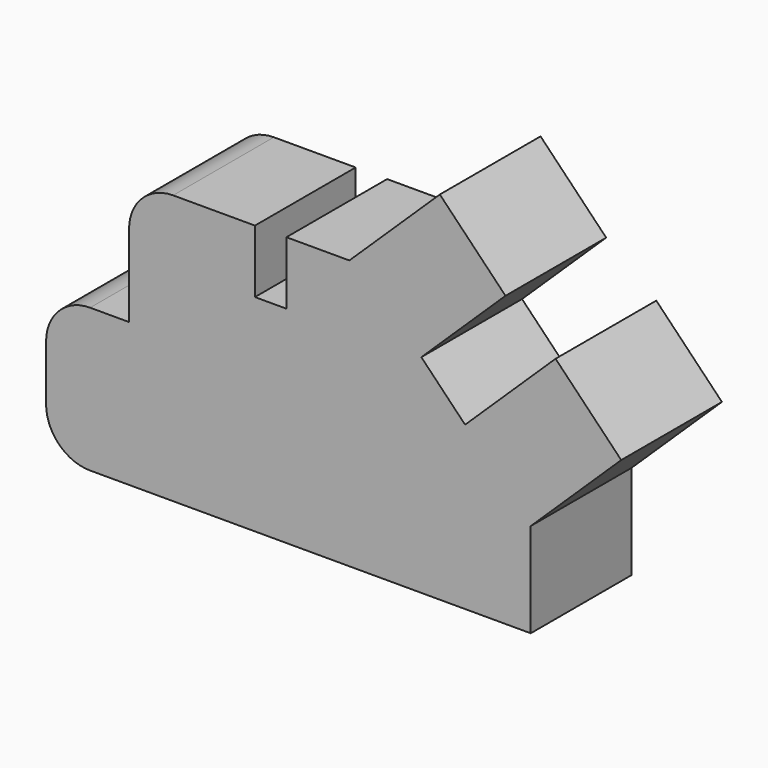
from build123d import *

# Parameters (mm, degrees)
F1_DEPTH = 508


with BuildPart() as f1:
    # F0 (on Front) → F1 (new body)
    with BuildSketch(Plane.XZ):
        with BuildLine():
            Line((-940.237215, 192.609879), (-940.237215, -30.321289))
            ThreePointArc((-940.237215, -30.321289), (-888.160801, -156.044874), (-762.437215, -208.121289))
            Line((-762.437215, -208.121289), (1015.562785, -208.121289))
            Line((1015.562785, -208.121289), (1015.562785, 172.878711))
            Line((1015.562785, 172.878711), (1380.703211, 526.059216))
            Line((1380.703211, 526.059216), (1115.817833, 799.914536))
            Line((1115.817833, 799.914536), (750.677406, 446.734031))
            Line((750.677406, 446.734031), (574.087154, 629.304244))
            Line((574.087154, 629.304244), (913.639785, 957.735064))
            Line((913.639785, 957.735064), (648.754406, 1231.590384))
            Line((648.754406, 1231.590384), (283.613979, 878.409879))
            Line((283.613979, 878.409879), (29.613979, 878.409879))
            Line((29.613979, 878.409879), (29.613979, 624.409879))
            Line((29.613979, 624.409879), (-97.386021, 624.409879))
            Line((-97.386021, 624.409879), (-97.386021, 878.409879))
            Line((-97.386021, 878.409879), (-427.586021, 878.409879))
            ThreePointArc((-427.586021, 878.409879), (-553.309606, 826.333464), (-605.386021, 700.609879))
            Line((-605.386021, 700.609879), (-605.386021, 370.409879))
            Line((-605.386021, 370.409879), (-762.437215, 370.409879))
            ThreePointArc((-762.437215, 370.409879), (-888.160801, 318.333464), (-940.237215, 192.609879))
        make_face()
    extrude(amount=F1_DEPTH)


solid = f1.part
